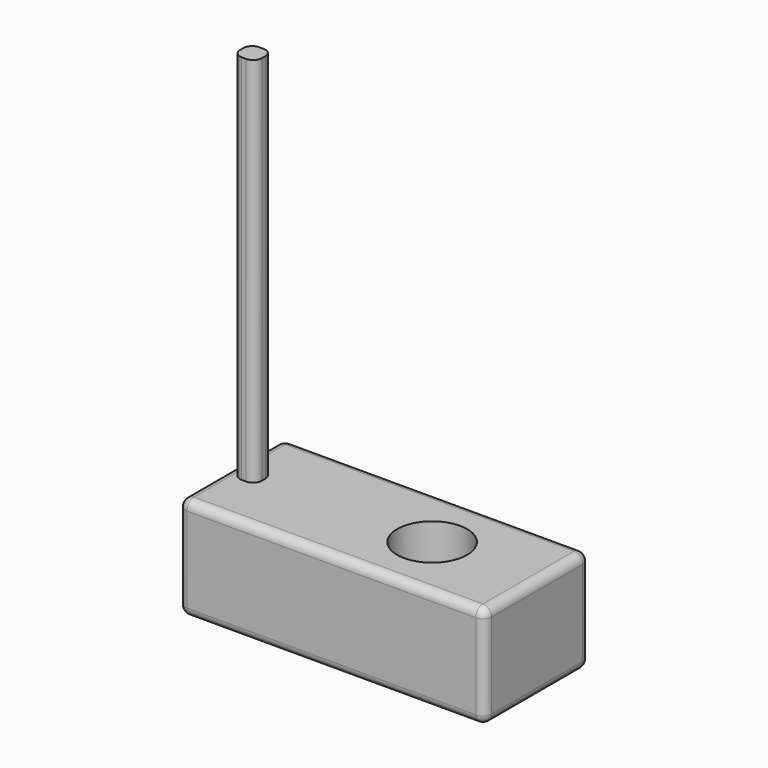
from build123d import *

# Parameters (mm, degrees)
F0_W     = 70
F0_H     = 23.5
F1_DEPTH = 30
F2_R     = 8
F3_DEPTH = 19.5
F4_R     = 7.5
F5_DEPTH = 2
F6_R     = 6.5
F7_DEPTH = 2.001
F8_W     = 5
F8_H     = 5
F9_DEPTH = 85
F10_R    = 2


with BuildPart() as f1:
    # F0 (on Front) → F1 (new body)
    with BuildSketch(Plane.XZ):
        Rectangle(F0_W, F0_H)
    extrude(amount=F1_DEPTH)

    # F2 (on face) → F3 (cut)
    with BuildSketch(Plane.XY.offset(11.75)):
        with Locations((11, -15)):
            Circle(F2_R)
    extrude(amount=-F3_DEPTH, mode=Mode.SUBTRACT)

    # F4 (on face) → F5 (cut)
    with BuildSketch(Plane.XY.offset(-7.75)):
        with Locations((11, -15)):
            Circle(F4_R)
    extrude(amount=-F5_DEPTH, mode=Mode.SUBTRACT)

    # F6 (on face) → F7 (cut, through all)
    with BuildSketch(Plane.XY.offset(-9.75)):
        with Locations((11, -15)):
            Circle(F6_R)
    extrude(amount=-F7_DEPTH, mode=Mode.SUBTRACT)

    # F8 (on face) → F9 (join)
    with BuildSketch(Plane.XY.offset(11.75)):
        with Locations((-30, -15)):
            Rectangle(F8_W, F8_H)
    extrude(amount=F9_DEPTH)

    # F10
    f10_edges = [f1.edges().sort_by_distance(p)[0] for p in [
        (0, -30, 11.75),
        (35, -15, 11.75),
        (35, -30, 0),
        (35, 0, 0),
        (35, -15, -11.75),
        (0, 0, 11.75),
        (0, 0, -11.75),
        (-35, 0, 0),
        (-35, -15, 11.75),
        (-35, -30, 0),
        (-35, -15, -11.75),
        (0, -30, -11.75),
        (-32.5, -17.5, 54.25),
        (-27.5, -17.5, 54.25),
        (-27.5, -12.5, 54.25),
        (-32.5, -12.5, 54.25),
    ]]
    fillet(f10_edges, radius=F10_R)


solid = f1.part
